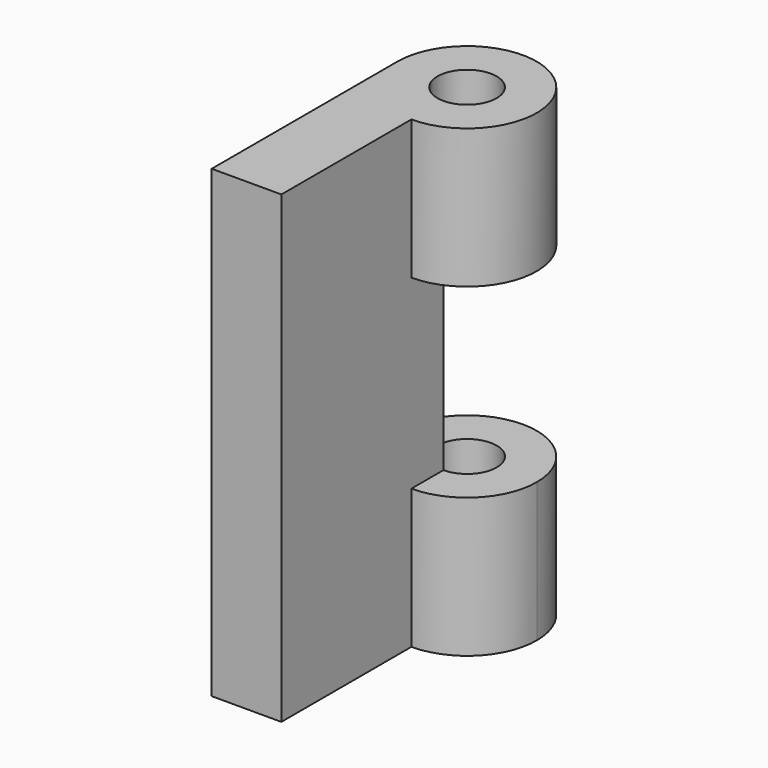
from build123d import *

# Parameters (mm, degrees)
F0_W     = 3.81
F0_H     = 25.4
F1_DEPTH = 12.7
F2_R     = 3.81
F3_DEPTH = 7.62
F5_DEPTH = 7.62
F6_DEPTH = 7.62
F7_R     = 1.61925
F8_DEPTH = 25.4


with BuildPart() as f1:
    # F0 (on Front) → F1 (new body)
    with BuildSketch(Plane.XZ):
        Rectangle(F0_W, F0_H)
    extrude(amount=F1_DEPTH)

    # F2 (on face) → F3 (join)
    with BuildSketch(Plane.XY.offset(12.7)):
        with Locations((1.905, 0)):
            Circle(F2_R)
    extrude(amount=-F3_DEPTH)

    # F2 (on face) → F5 (join)
    with BuildSketch(Plane.XY.offset(12.7)):
        with Locations((1.905, 0)):
            Circle(F2_R)
    extrude(amount=-F5_DEPTH)

    # F4 (on face) → F6 (join)
    with BuildSketch(Plane(origin=(0, 0, -12.7), x_dir=(1, 0, 0), z_dir=(0, 0, -1))):
        with BuildLine():
            Line((1.905, 0), (-1.905, 0))
            ThreePointArc((-1.905, 0), (1.905, -3.81), (5.715, 0))
            ThreePointArc((5.715, 0), (4.5990768363, 2.6940768363), (1.905, 3.81))
            Line((1.905, 3.81), (1.905, 0))
        make_face()
    extrude(amount=-F6_DEPTH)

    # F7 (on face) → F8 (cut)
    with BuildSketch(Plane.XY.offset(12.7)):
        with Locations((1.905, 0)):
            Circle(F7_R)
    extrude(amount=-F8_DEPTH, mode=Mode.SUBTRACT)


solid = f1.part
